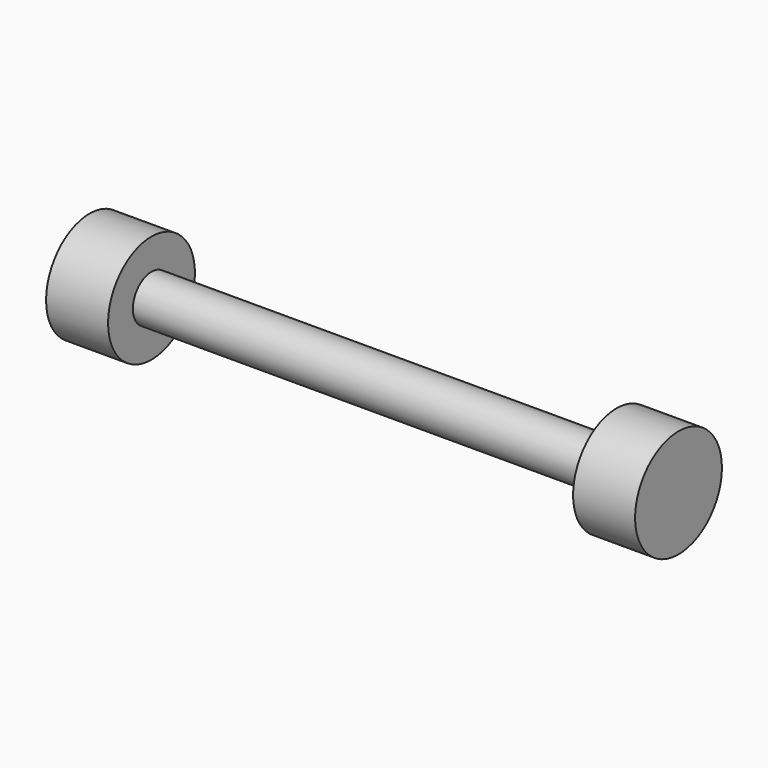
from build123d import *

# Parameters (mm, degrees)
F0_R     = 3.81
F1_DEPTH = 76.2
F3_R     = 8.89
F4_DEPTH = 10.16
F5_R     = 8.89
F6_DEPTH = 10.16


with BuildPart() as f1:
    # F0 (on Right) → F1 (new body)
    with BuildSketch(Plane.YZ):
        Circle(F0_R)
    extrude(amount=F1_DEPTH)

    # F3 (on face) → F4 (join)
    with BuildSketch(Plane(origin=(0, 0, 0), x_dir=(0, -1, 0), z_dir=(-1, 0, 0))):
        Circle(F3_R)
    extrude(amount=F4_DEPTH)

    # F5 (on face) → F6 (join)
    with BuildSketch(Plane.YZ.offset(76.2)):
        Circle(F5_R)
    extrude(amount=F6_DEPTH)


solid = f1.part
